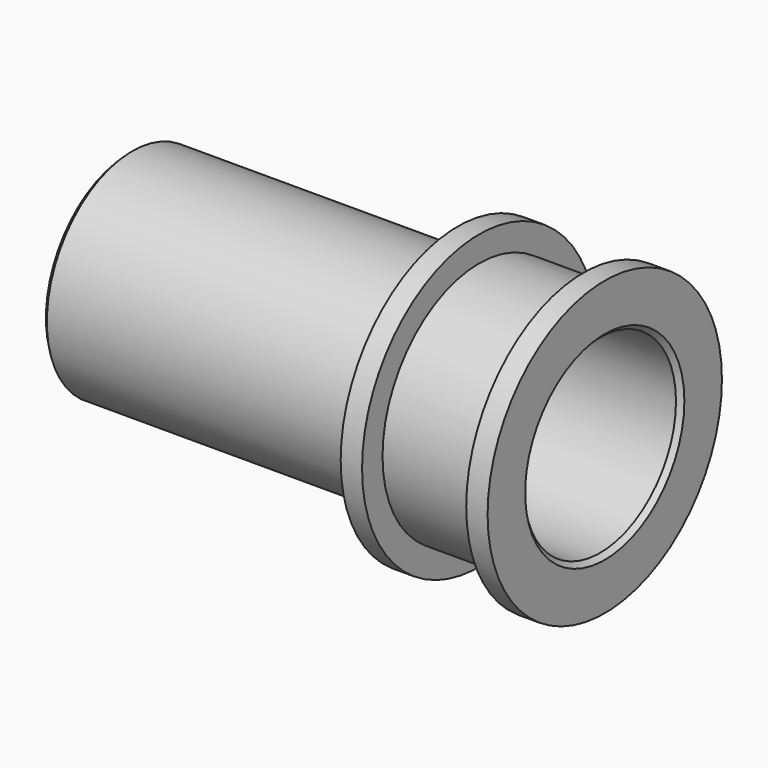
from build123d import *

# Parameters (mm, degrees)
F2_SIZE = 0.5


with BuildPart() as f1:
    # F0 (on Top) → F1 (revolve)
    with BuildSketch(Plane.XY):
        Polygon((-51.3, 11.5), (-51.3, 10.2), (0, 10.2), (0, 15.75), (-2.3, 15.75), (-2.3, 13), (-13.5, 13), (-13.5, 15.75), (-15.8, 15.75), (-15.8, 11.5), align=None)
    revolve(axis=Axis((-27.94127, 0, 0), (-1, 0, 0)))

    # F2
    f2_edges = [f1.edges().sort_by_distance(p)[0] for p in [
        (-51.3, -11.5, 0),
        (0, -10.2, 0),
    ]]
    chamfer(f2_edges, length=F2_SIZE)


solid = f1.part
